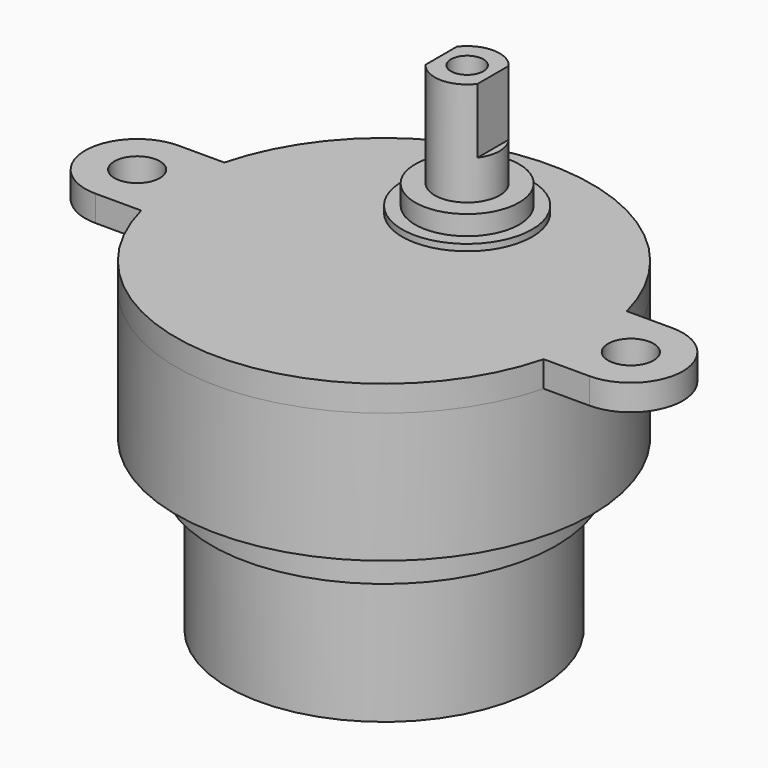
from build123d import *

# Parameters (mm, degrees)
SKETCH023_R     = 1.75
PAD013_DEPTH    = 2
SKETCH024_R     = 16
PAD014_DEPTH    = 10
SKETCH025_R     = 13.25
PAD015_DEPTH    = 3
SKETCH026_R     = 12
PAD016_DEPTH    = 10
SKETCH027_R     = 5
PAD017_DEPTH    = 0.5
SKETCH028_R     = 4
PAD018_DEPTH    = 1.5
SKETCH029_R     = 2.5
PAD019_DEPTH    = 8
SKETCH030_R     = 1.25
POCKET008_DEPTH = 10
POCKET009_DEPTH = 5


with BuildPart() as part:
    # Sketch023 → Pad013 (new body)
    with BuildSketch(Plane.XY):
        with BuildLine():
            ThreePointArc((15.491933, 4), (0, 16), (-15.491933, 4))
            Line((-19, 4), (-15.491933, 4))
            ThreePointArc((-19, 4), (-23, 0), (-19, -4))
            Line((-19, -4), (-15.491933, -4))
            ThreePointArc((-15.491933, -4), (0, -16), (15.491933, -4))
            Line((15.491933, -4), (19, -4))
            ThreePointArc((19, -4), (23, 0), (19, 4))
            Line((15.491933, 4), (19, 4))
        make_face()
        with Locations((-19, 0)):
            Circle(SKETCH023_R, mode=Mode.SUBTRACT)
        with Locations((19, 0)):
            Circle(SKETCH023_R, mode=Mode.SUBTRACT)
    extrude(amount=PAD013_DEPTH)

    # Sketch024 (on Face11 of Pad013) → Pad014 (join)
    with BuildSketch(Plane(origin=(0, 0, 0), x_dir=(1, 0, 0), z_dir=(0, 0, -1))):
        Circle(SKETCH024_R)
    extrude(amount=PAD014_DEPTH)

    # Sketch025 (on Face13 of Pad014) → Pad015 (join)
    with BuildSketch(Plane(origin=(0, 0, -10), x_dir=(1, 0, 0), z_dir=(0, 0, -1))):
        Circle(SKETCH025_R)
    extrude(amount=PAD015_DEPTH)

    # Sketch026 (on Face15 of Pad015) → Pad016 (join)
    with BuildSketch(Plane(origin=(0, 0, -13), x_dir=(1, 0, 0), z_dir=(0, 0, -1))):
        Circle(SKETCH026_R)
    extrude(amount=PAD016_DEPTH)

    # Sketch027 (on Face5 of Pad016) → Pad017 (join)
    with BuildSketch(Plane.XY.offset(2)):
        with Locations((0, 8)):
            Circle(SKETCH027_R)
    extrude(amount=PAD017_DEPTH)

    # Sketch028 (on Face16 of Pad017) → Pad018 (join)
    with BuildSketch(Plane.XY.offset(2.5)):
        with Locations((0, 8)):
            Circle(SKETCH028_R)
    extrude(amount=PAD018_DEPTH)

    # Sketch029 (on Face20 of Pad018) → Pad019 (join)
    with BuildSketch(Plane.XY.offset(4)):
        with Locations((0, 8)):
            Circle(SKETCH029_R)
    extrude(amount=PAD019_DEPTH)

    # Sketch030 (on Face23 of Pad019) → Pocket008 (cut)
    with BuildSketch(Plane.XY.offset(12)):
        with Locations((0, 8)):
            Circle(SKETCH030_R)
    extrude(amount=-POCKET008_DEPTH, mode=Mode.SUBTRACT)

    # Sketch031 (on Face23 of Pocket008) → Pocket009 (cut)
    with BuildSketch(Plane.XY.offset(12)):
        with BuildLine():
            Line((2, 9.5), (2, 6.5))
            ThreePointArc((2, 6.5), (2.5, 8), (2, 9.5))
        make_face()
        with BuildLine():
            Line((-2, 9.5), (-2, 6.5))
            ThreePointArc((-2, 9.5), (-2.5, 8), (-2, 6.5))
        make_face()
    extrude(amount=-POCKET009_DEPTH, mode=Mode.SUBTRACT)


solid = part.part
